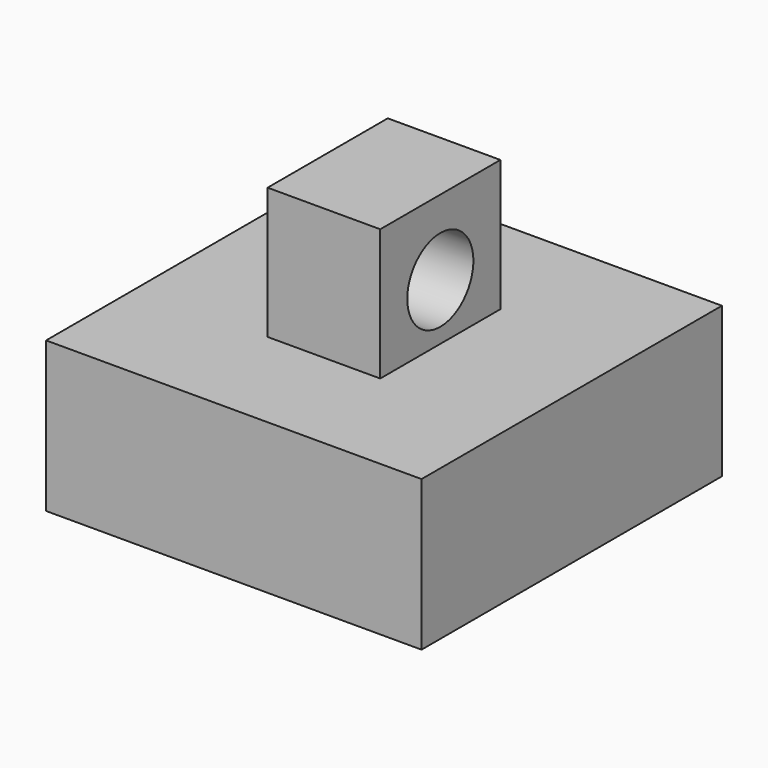
from build123d import *

# Parameters (mm, degrees)
F0_W     = 20
F0_H     = 20
F1_DEPTH = 8
F3_DEPTH = 4
F5_DEPTH = 19
F6_W     = 6
F6_H     = 8
F7_DEPTH = 7
F8_R     = 2.2
F9_DEPTH = 6


with BuildPart() as f1:
    # F0 (on Top) → F1 (new body)
    with BuildSketch(Plane.XY):
        Rectangle(F0_W, F0_H)
    extrude(amount=F1_DEPTH)

    # F2 (on face) → F3 (cut)
    with BuildSketch(Plane(origin=(0, 0, 0), x_dir=(1, 0, 0), z_dir=(0, 0, -1))):
        with BuildLine():
            ThreePointArc((6.430839, -0.945677), (6.482687, -0.474101), (6.5, 0))
            ThreePointArc((6.5, 0), (-0.474101, 6.482687), (-6.430839, -0.945677))
            Line((-6.430839, -0.945677), (6.430839, -0.945677))
        make_face()
        with BuildLine():
            Line((6.430839, -0.945677), (-6.430839, -0.945677))
            ThreePointArc((-6.430839, -0.945677), (0, -6.5), (6.430839, -0.945677))
        make_face()
        with BuildLine():
            ThreePointArc((6.430839, -0.945677), (0, -6.5), (-6.430839, -0.945677))
            Line((-6.430839, -0.945677), (-6.430839, -10))
            Line((-6.430839, -10), (6.430839, -10))
            Line((6.430839, -10), (6.430839, -0.945677))
        make_face()
    extrude(amount=-F3_DEPTH, mode=Mode.SUBTRACT)

    # F4 (on face) → F5 (cut)
    with BuildSketch(Plane(origin=(0, 10, 0), x_dir=(-1, 0, 0), z_dir=(0, 1, 0))):
        Polygon((6.430839, 4), (9.473302, 4), (9.473302, 6.210144), (-9.087299, 6.210144), (-9.087299, 4), (-6.430839, 4), align=None)
    extrude(amount=-F5_DEPTH, mode=Mode.SUBTRACT)

    # F6 (on face) → F7 (join)
    with BuildSketch(Plane.XY.offset(8)):
        Rectangle(F6_W, F6_H)
    extrude(amount=F7_DEPTH)

    # F8 (on face) → F9 (cut)
    with BuildSketch(Plane(origin=(-3, 0, 0), x_dir=(0, -1, 0), z_dir=(-1, 0, 0))):
        with Locations((0, 11)):
            Circle(F8_R)
    extrude(amount=-F9_DEPTH, mode=Mode.SUBTRACT)


solid = f1.part
